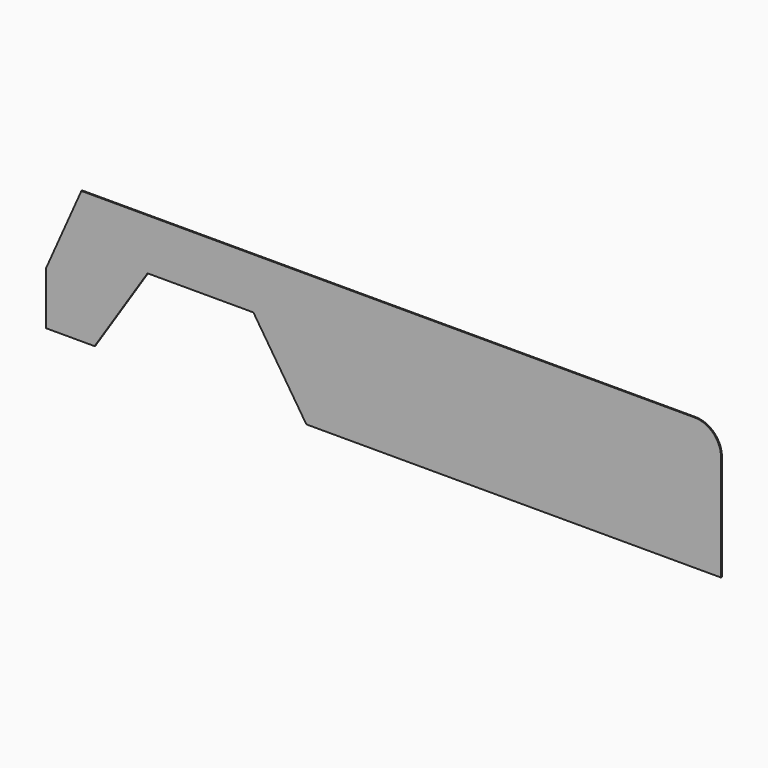
from build123d import *

# Parameters (mm, degrees)
F1_DEPTH = 3.175


with BuildPart() as f1:
    # F0 (on Front) → F1 (new body)
    with BuildSketch(Plane.XZ):
        with BuildLine():
            Line((0, 152.4), (0, 0))
            Line((0, 0), (139.7, 0))
            Line((139.7, 0), (292.1, 234.176429))
            Line((292.1, 234.176429), (596.9, 234.176429))
            Line((596.9, 234.176429), (749.3, 0))
            Line((749.3, 0), (1943.1, 0))
            Line((1943.1, 0), (1943.1, 304.8))
            ThreePointArc((1943.1, 304.8), (1920.781537, 358.681537), (1866.9, 381))
            Line((1866.9, 381), (101.6, 381))
            Line((101.6, 381), (0, 152.4))
        make_face()
    extrude(amount=F1_DEPTH)


solid = f1.part
